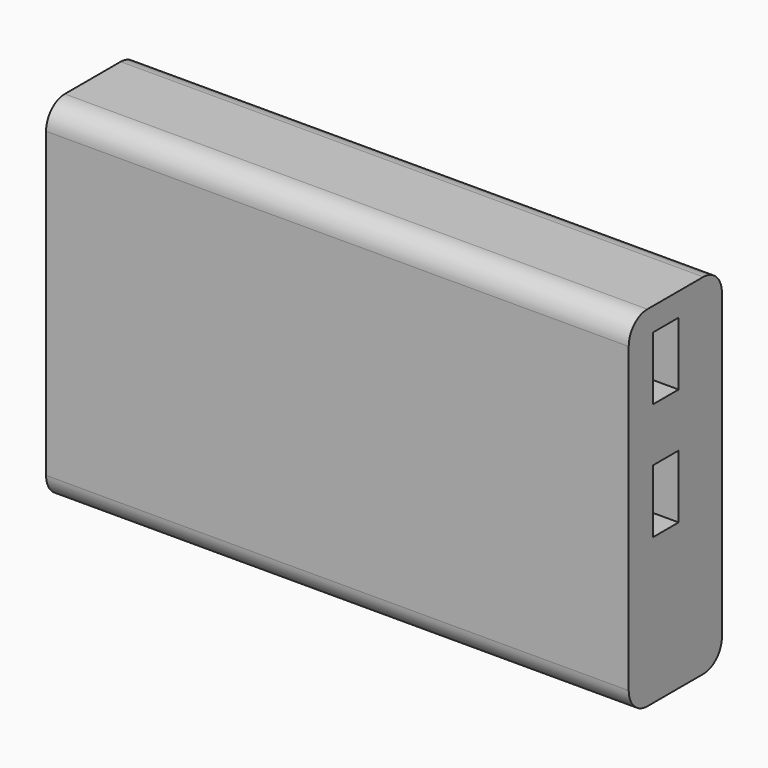
from build123d import *

# Parameters (mm, degrees)
F0_W     = 127
F0_H     = 76.2
F1_DEPTH = 25.4
F2_R     = 5.08
F3_W     = 7
F3_H     = 13.8
F4_DEPTH = 15
F5_W     = 7
F5_H     = 13.8
F6_DEPTH = 15


with BuildPart() as f1:
    # F0 (on Front) → F1 (new body)
    with BuildSketch(Plane.XZ):
        Rectangle(F0_W, F0_H)
    extrude(amount=F1_DEPTH)

    # F2
    f2_edges = [f1.edges().sort_by_distance(p)[0] for p in [
        (0, -25.4, 38.1),
        (0, 0, 38.1),
        (0, -25.4, -38.1),
        (0, 0, -38.1),
    ]]
    fillet(f2_edges, radius=F2_R)

    # F3 (on face) → F4 (cut)
    with BuildSketch(Plane.YZ.offset(63.5)):
        with Locations((-15.288545, 26.12)):
            Rectangle(F3_W, F3_H)
    extrude(amount=-F4_DEPTH, mode=Mode.SUBTRACT)

    # F5 (on face) → F6 (cut)
    with BuildSketch(Plane.YZ.offset(63.5)):
        with Locations((-15.288545, 0.620681)):
            Rectangle(F5_W, F5_H)
    extrude(amount=-F6_DEPTH, mode=Mode.SUBTRACT)


solid = f1.part
